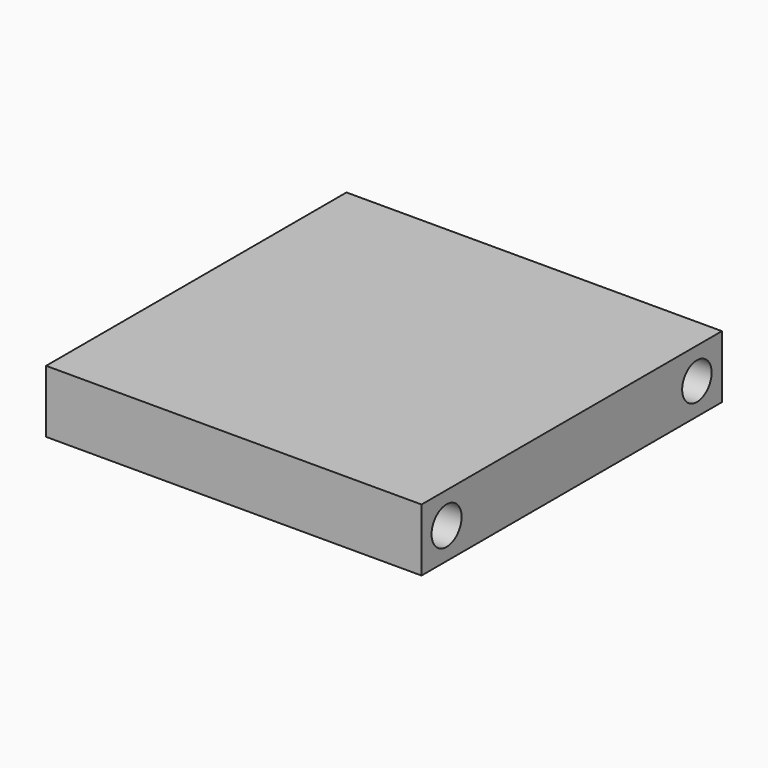
from build123d import *

# Parameters (mm, degrees)
F0_W     = 60
F0_H     = 60
F1_DEPTH = 10
F2_R     = 3
F2_R_2   = 2.943246
F4_DEPTH = 5
F3_R     = 3
F5_DEPTH = 5


with BuildPart() as f1:
    # F0 (on Top) → F1 (new body)
    with BuildSketch(Plane.XY):
        Rectangle(F0_W, F0_H)
    extrude(amount=F1_DEPTH)

    # F2 (on face) → F4 (cut)
    with BuildSketch(Plane.YZ.offset(30)):
        with Locations((-25, 5)):
            Circle(F2_R)
        with Locations((25, 5)):
            Circle(F2_R_2)
    extrude(amount=-F4_DEPTH, mode=Mode.SUBTRACT)

    # F3 (on face) → F5 (cut)
    with BuildSketch(Plane(origin=(-30, 0, 0), x_dir=(0, -1, 0), z_dir=(-1, 0, 0))):
        with Locations((-25, 5)):
            Circle(F3_R)
        with Locations((25, 5)):
            Circle(F3_R)
    extrude(amount=-F5_DEPTH, mode=Mode.SUBTRACT)


solid = f1.part
